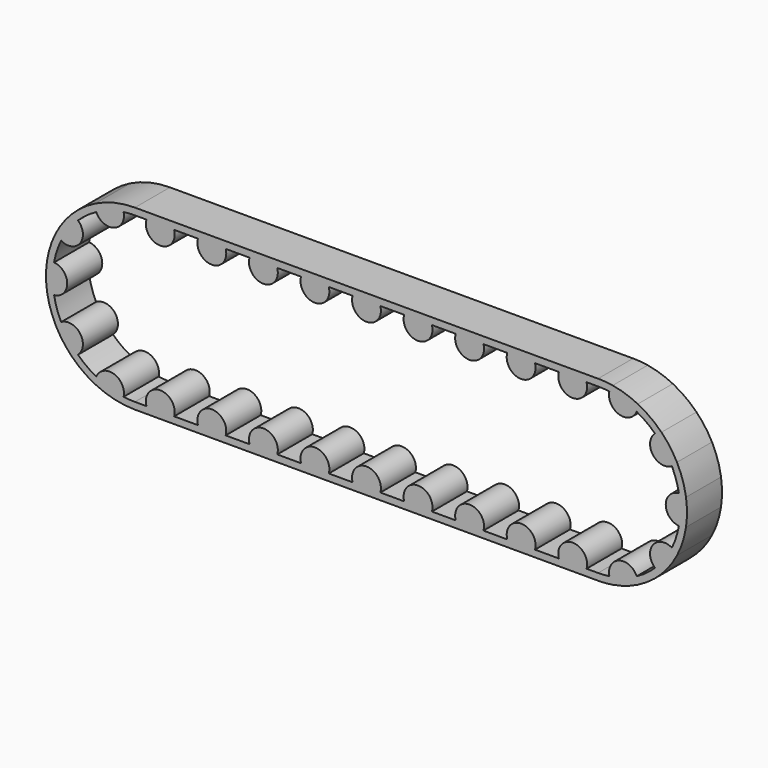
from build123d import *

# Parameters (mm, degrees)
F3_DEPTH = 25.4


with BuildPart() as f3:
    # F2 (on Front) → F3 (new body)
    with BuildSketch(Plane.XZ):
        with BuildLine():
            ThreePointArc((-6.5580901404, 47.171305671), (-3.2868824452, 47.5114410305), (0, 47.625))
            Line((0, 47.625), (6.6759446819, 47.625))
            ThreePointArc((6.6759446819, 47.625), (7.6523000339, 49.786472114), (9.1956373991, 51.5874))
            Line((9.1956373991, 51.5874), (0, 51.5874))
            ThreePointArc((0, 51.5874), (-4.2571154541, 51.4114462622), (-8.485190663, 50.8847853309))
            ThreePointArc((-8.485190663, 50.8847853309), (-7.2859359113, 49.1503637276), (-6.5580901404, 47.171305671))
        make_face()
        with BuildLine():
            ThreePointArc((-22.4209914306, 42.0171366024), (-14.7169343571, 45.2940665886), (-6.5580901404, 47.171305671))
            ThreePointArc((-6.5580901404, 47.171305671), (-7.2859359113, 49.1503637276), (-8.485190663, 50.8847853309))
            ThreePointArc((-8.485190663, 50.8847853309), (-15.9413832956, 49.0625329287), (-23.0446629367, 46.1541260224))
            ThreePointArc((-23.0446629367, 46.1541260224), (-22.9954129717, 44.0460452131), (-22.4209914306, 42.0171366024))
        make_face()
        with BuildLine():
            ThreePointArc((9.1956373991, 51.5874), (7.6523000339, 49.786472114), (6.6759446819, 47.625))
            Line((6.6759446819, 47.625), (22.7579240323, 47.625))
            ThreePointArc((22.7579240323, 47.625), (21.7815686803, 49.786472114), (20.2382313151, 51.5874))
            Line((20.2382313151, 51.5874), (9.1956373991, 51.5874))
        make_face()
        with BuildLine():
            ThreePointArc((-33.032204179, 34.307639267), (-27.9932726404, 38.5294343571), (-22.4209914306, 42.0171366024))
            ThreePointArc((-22.4209914306, 42.0171366024), (-22.9954129717, 44.0460452131), (-23.0446629367, 46.1541260224))
            ThreePointArc((-23.0446629367, 46.1541260224), (-30.3223129241, 41.7350832956), (-36.7739898304, 36.1791861533))
            ThreePointArc((-36.7739898304, 36.1791861533), (-34.7843049161, 35.4809138575), (-33.032204179, 34.307639267))
        make_face()
        with BuildLine():
            ThreePointArc((20.2382313151, 51.5874), (21.7815686803, 49.786472114), (22.7579240323, 47.625))
            Line((22.7579240323, 47.625), (36.5771902535, 47.625))
            ThreePointArc((36.5771902535, 47.625), (37.5535456055, 49.786472114), (39.0968829707, 51.5874))
            Line((39.0968829707, 51.5874), (20.2382313151, 51.5874))
        make_face()
        with BuildLine():
            ThreePointArc((-42.8360163366, 20.8138494617), (-38.5294343571, 27.9932726404), (-33.032204179, 34.307639267))
            ThreePointArc((-33.032204179, 34.307639267), (-34.7843049161, 35.4809138575), (-36.7739898304, 36.1791861533))
            ThreePointArc((-36.7739898304, 36.1791861533), (-41.7350832956, 30.3223129241), (-45.7722385539, 23.7941592944))
            ThreePointArc((-45.7722385539, 23.7941592944), (-44.4932956849, 22.1176344973), (-42.8360163366, 20.8138494617))
        make_face()
        with BuildLine():
            ThreePointArc((39.0968829707, 51.5874), (37.5535456055, 49.786472114), (36.5771902535, 47.625))
            Line((36.5771902535, 47.625), (52.6591696039, 47.625))
            ThreePointArc((52.6591696039, 47.625), (51.6828142519, 49.786472114), (50.1394768867, 51.5874))
            Line((50.1394768867, 51.5874), (39.0968829707, 51.5874))
        make_face()
        with BuildLine():
            ThreePointArc((-46.8891389446, 8.3396207368), (-45.2940665886, 14.7169343571), (-42.8360163366, 20.8138494617))
            ThreePointArc((-42.8360163366, 20.8138494617), (-44.4932956849, 22.1176344973), (-45.7722385539, 23.7941592944))
            ThreePointArc((-45.7722385539, 23.7941592944), (-49.0625329287, 15.9413832956), (-51.0163747846, 7.6543675504))
            ThreePointArc((-51.0163747846, 7.6543675504), (-48.9962517179, 8.2589608458), (-46.8891389446, 8.3396207368))
        make_face()
        with BuildLine():
            ThreePointArc((50.1394768867, 51.5874), (51.6828142519, 49.786472114), (52.6591696039, 47.625))
            Line((52.6591696039, 47.625), (66.478435825, 47.625))
            ThreePointArc((66.478435825, 47.625), (67.4547911771, 49.786472114), (68.9981285423, 51.5874))
            Line((68.9981285423, 51.5874), (50.1394768867, 51.5874))
        make_face()
        with BuildLine():
            ThreePointArc((-46.8891389446, -8.3396207368), (-47.625, 0), (-46.8891389446, 8.3396207368))
            ThreePointArc((-46.8891389446, 8.3396207368), (-48.9962517179, 8.2589608458), (-51.0163747846, 7.6543675504))
            ThreePointArc((-51.0163747846, 7.6543675504), (-51.5874, 0), (-51.0163747846, -7.6543675504))
            ThreePointArc((-51.0163747846, -7.6543675504), (-48.9962517179, -8.2589608458), (-46.8891389446, -8.3396207368))
        make_face()
        with BuildLine():
            ThreePointArc((68.9981285423, 51.5874), (67.4547911771, 49.786472114), (66.478435825, 47.625))
            Line((66.478435825, 47.625), (82.5604151755, 47.625))
            ThreePointArc((82.5604151755, 47.625), (81.5840598235, 49.786472114), (80.0407224583, 51.5874))
            Line((80.0407224583, 51.5874), (68.9981285423, 51.5874))
        make_face()
        with BuildLine():
            ThreePointArc((-42.8360163366, -20.8138494617), (-45.2940665886, -14.7169343571), (-46.8891389446, -8.3396207368))
            ThreePointArc((-46.8891389446, -8.3396207368), (-48.9962517179, -8.2589608458), (-51.0163747846, -7.6543675504))
            ThreePointArc((-51.0163747846, -7.6543675504), (-49.0625329287, -15.9413832956), (-45.7722385539, -23.7941592944))
            ThreePointArc((-45.7722385539, -23.7941592944), (-44.4932956849, -22.1176344973), (-42.8360163366, -20.8138494617))
        make_face()
        with BuildLine():
            ThreePointArc((80.0407224583, 51.5874), (81.5840598235, 49.786472114), (82.5604151755, 47.625))
            Line((82.5604151755, 47.625), (96.3796813966, 47.625))
            ThreePointArc((96.3796813966, 47.625), (97.3560367487, 49.786472114), (98.8993741139, 51.5874))
            Line((98.8993741139, 51.5874), (80.0407224583, 51.5874))
        make_face()
        with BuildLine():
            ThreePointArc((-33.032204179, -34.307639267), (-38.5294343571, -27.9932726404), (-42.8360163366, -20.8138494617))
            ThreePointArc((-42.8360163366, -20.8138494617), (-44.4932956849, -22.1176344973), (-45.7722385539, -23.7941592944))
            ThreePointArc((-45.7722385539, -23.7941592944), (-41.7350832956, -30.3223129241), (-36.7739898304, -36.1791861533))
            ThreePointArc((-36.7739898304, -36.1791861533), (-34.7843049161, -35.4809138575), (-33.032204179, -34.307639267))
        make_face()
        with BuildLine():
            ThreePointArc((98.8993741139, 51.5874), (97.3560367487, 49.786472114), (96.3796813966, 47.625))
            Line((96.3796813966, 47.625), (112.4616607471, 47.625))
            ThreePointArc((112.4616607471, 47.625), (111.485305395, 49.786472114), (109.9419680298, 51.5874))
            Line((109.9419680298, 51.5874), (98.8993741139, 51.5874))
        make_face()
        with BuildLine():
            ThreePointArc((-22.4209914306, -42.0171366024), (-27.9932726404, -38.5294343571), (-33.032204179, -34.307639267))
            ThreePointArc((-33.032204179, -34.307639267), (-34.7843049161, -35.4809138575), (-36.7739898304, -36.1791861533))
            ThreePointArc((-36.7739898304, -36.1791861533), (-30.3223129241, -41.7350832956), (-23.0446629367, -46.1541260224))
            ThreePointArc((-23.0446629367, -46.1541260224), (-22.9954129717, -44.0460452131), (-22.4209914306, -42.0171366024))
        make_face()
        with BuildLine():
            ThreePointArc((109.9419680298, 51.5874), (111.485305395, 49.786472114), (112.4616607471, 47.625))
            Line((112.4616607471, 47.625), (126.2809269682, 47.625))
            ThreePointArc((126.2809269682, 47.625), (127.2572823202, 49.786472114), (128.8006196855, 51.5874))
            Line((128.8006196855, 51.5874), (109.9419680298, 51.5874))
        make_face()
        with BuildLine():
            ThreePointArc((-6.5580901404, -47.171305671), (-14.7169343571, -45.2940665886), (-22.4209914306, -42.0171366024))
            ThreePointArc((-22.4209914306, -42.0171366024), (-22.9954129717, -44.0460452131), (-23.0446629367, -46.1541260224))
            ThreePointArc((-23.0446629367, -46.1541260224), (-15.9413832956, -49.0625329287), (-8.485190663, -50.8847853309))
            ThreePointArc((-8.485190663, -50.8847853309), (-7.2859359113, -49.1503637276), (-6.5580901404, -47.171305671))
        make_face()
        with BuildLine():
            ThreePointArc((128.8006196855, 51.5874), (127.2572823202, 49.786472114), (126.2809269682, 47.625))
            Line((126.2809269682, 47.625), (142.3629063187, 47.625))
            ThreePointArc((142.3629063187, 47.625), (141.3865509666, 49.786472114), (139.8432136014, 51.5874))
            Line((139.8432136014, 51.5874), (128.8006196855, 51.5874))
        make_face()
        with BuildLine():
            ThreePointArc((0, -47.625), (-3.2868824452, -47.5114410305), (-6.5580901404, -47.171305671))
            ThreePointArc((-6.5580901404, -47.171305671), (-7.2859359113, -49.1503637276), (-8.485190663, -50.8847853309))
            ThreePointArc((-8.485190663, -50.8847853309), (-4.2571154541, -51.4114462622), (0, -51.5874))
            Line((0, -51.5874), (9.1956373991, -51.5874))
            ThreePointArc((9.1956373991, -51.5874), (7.6523000339, -49.786472114), (6.6759446819, -47.625))
            Line((6.6759446819, -47.625), (0, -47.625))
        make_face()
        with BuildLine():
            ThreePointArc((139.8432136014, 51.5874), (141.3865509666, 49.786472114), (142.3629063187, 47.625))
            Line((142.3629063187, 47.625), (156.1821725398, 47.625))
            ThreePointArc((156.1821725398, 47.625), (157.1585278918, 49.786472114), (158.701865257, 51.5874))
            Line((158.701865257, 51.5874), (139.8432136014, 51.5874))
        make_face()
        with BuildLine():
            ThreePointArc((158.701865257, 51.5874), (157.1585278918, 49.786472114), (156.1821725398, 47.625))
            Line((156.1821725398, 47.625), (172.2641518903, 47.625))
            ThreePointArc((172.2641518903, 47.625), (171.2877965382, 49.786472114), (169.744459173, 51.5874))
            Line((169.744459173, 51.5874), (158.701865257, 51.5874))
        make_face()
        with BuildLine():
            Line((22.7579240323, -47.625), (6.6759446819, -47.625))
            ThreePointArc((6.6759446819, -47.625), (7.6523000339, -49.786472114), (9.1956373991, -51.5874))
            Line((9.1956373991, -51.5874), (20.2382313151, -51.5874))
            ThreePointArc((20.2382313151, -51.5874), (21.7815686803, -49.786472114), (22.7579240323, -47.625))
        make_face()
        with BuildLine():
            ThreePointArc((169.744459173, 51.5874), (171.2877965382, 49.786472114), (172.2641518903, 47.625))
            Line((172.2641518903, 47.625), (186.0834181114, 47.625))
            ThreePointArc((186.0834181114, 47.625), (187.0597734634, 49.786472114), (188.6031108286, 51.5874))
            Line((188.6031108286, 51.5874), (169.744459173, 51.5874))
        make_face()
        with BuildLine():
            Line((36.5771902535, -47.625), (22.7579240323, -47.625))
            ThreePointArc((22.7579240323, -47.625), (21.7815686803, -49.786472114), (20.2382313151, -51.5874))
            Line((20.2382313151, -51.5874), (39.0968829707, -51.5874))
            ThreePointArc((39.0968829707, -51.5874), (37.5535456055, -49.786472114), (36.5771902535, -47.625))
        make_face()
        with BuildLine():
            ThreePointArc((188.6031108286, 51.5874), (187.0597734634, 49.786472114), (186.0834181114, 47.625))
            Line((186.0834181114, 47.625), (202.1653974618, 47.625))
            ThreePointArc((202.1653974618, 47.625), (201.1890421098, 49.786472114), (199.6457047446, 51.5874))
            Line((199.6457047446, 51.5874), (188.6031108286, 51.5874))
        make_face()
        with BuildLine():
            Line((52.6591696039, -47.625), (36.5771902535, -47.625))
            ThreePointArc((36.5771902535, -47.625), (37.5535456055, -49.786472114), (39.0968829707, -51.5874))
            Line((39.0968829707, -51.5874), (50.1394768867, -51.5874))
            ThreePointArc((50.1394768867, -51.5874), (51.6828142519, -49.786472114), (52.6591696039, -47.625))
        make_face()
        with BuildLine():
            ThreePointArc((199.6457047446, 51.5874), (201.1890421098, 49.786472114), (202.1653974618, 47.625))
            Line((202.1653974618, 47.625), (215.984663683, 47.625))
            ThreePointArc((215.984663683, 47.625), (216.961019035, 49.786472114), (218.5043564002, 51.5874))
            Line((218.5043564002, 51.5874), (199.6457047446, 51.5874))
        make_face()
        with BuildLine():
            Line((66.478435825, -47.625), (52.6591696039, -47.625))
            ThreePointArc((52.6591696039, -47.625), (51.6828142519, -49.786472114), (50.1394768867, -51.5874))
            Line((50.1394768867, -51.5874), (68.9981285423, -51.5874))
            ThreePointArc((68.9981285423, -51.5874), (67.4547911771, -49.786472114), (66.478435825, -47.625))
        make_face()
        with BuildLine():
            ThreePointArc((218.5043564002, 51.5874), (216.961019035, 49.786472114), (215.984663683, 47.625))
            Line((215.984663683, 47.625), (232.0666430334, 47.625))
            ThreePointArc((232.0666430334, 47.625), (231.0902876814, 49.786472114), (229.5469503162, 51.5874))
            Line((229.5469503162, 51.5874), (218.5043564002, 51.5874))
        make_face()
        with BuildLine():
            Line((82.5604151755, -47.625), (66.478435825, -47.625))
            ThreePointArc((66.478435825, -47.625), (67.4547911771, -49.786472114), (68.9981285423, -51.5874))
            Line((68.9981285423, -51.5874), (80.0407224583, -51.5874))
            ThreePointArc((80.0407224583, -51.5874), (81.5840598235, -49.786472114), (82.5604151755, -47.625))
        make_face()
        with BuildLine():
            ThreePointArc((229.5469503162, 51.5874), (231.0902876814, 49.786472114), (232.0666430334, 47.625))
            Line((232.0666430334, 47.625), (245.8859092545, 47.625))
            ThreePointArc((245.8859092545, 47.625), (246.8622646066, 49.786472114), (248.4056019718, 51.5874))
            Line((248.4056019718, 51.5874), (229.5469503162, 51.5874))
        make_face()
        with BuildLine():
            Line((96.3796813966, -47.625), (82.5604151755, -47.625))
            ThreePointArc((82.5604151755, -47.625), (81.5840598235, -49.786472114), (80.0407224583, -51.5874))
            Line((80.0407224583, -51.5874), (98.8993741139, -51.5874))
            ThreePointArc((98.8993741139, -51.5874), (97.3560367487, -49.786472114), (96.3796813966, -47.625))
        make_face()
        with BuildLine():
            ThreePointArc((248.4056019718, 51.5874), (246.8622646066, 49.786472114), (245.8859092545, 47.625))
            Line((245.8859092545, 47.625), (261.967888605, 47.625))
            ThreePointArc((261.967888605, 47.625), (260.991533253, 49.786472114), (259.4481958878, 51.5874))
            Line((259.4481958878, 51.5874), (248.4056019718, 51.5874))
        make_face()
        with BuildLine():
            Line((112.4616607471, -47.625), (96.3796813966, -47.625))
            ThreePointArc((96.3796813966, -47.625), (97.3560367487, -49.786472114), (98.8993741139, -51.5874))
            Line((98.8993741139, -51.5874), (109.9419680298, -51.5874))
            ThreePointArc((109.9419680298, -51.5874), (111.485305395, -49.786472114), (112.4616607471, -47.625))
        make_face()
        with BuildLine():
            ThreePointArc((259.4481958878, 51.5874), (260.991533253, 49.786472114), (261.967888605, 47.625))
            Line((261.967888605, 47.625), (268.6438332869, 47.625))
            ThreePointArc((268.6438332869, 47.625), (271.930715732, 47.5114410305), (275.2019234272, 47.171305671))
            ThreePointArc((275.2019234272, 47.171305671), (275.9297691982, 49.1503637276), (277.1290239498, 50.8847853309))
            ThreePointArc((277.1290239498, 50.8847853309), (272.900948741, 51.4114462622), (268.6438332869, 51.5874))
            Line((268.6438332869, 51.5874), (259.4481958878, 51.5874))
        make_face()
        with BuildLine():
            Line((126.2809269682, -47.625), (112.4616607471, -47.625))
            ThreePointArc((112.4616607471, -47.625), (111.485305395, -49.786472114), (109.9419680298, -51.5874))
            Line((109.9419680298, -51.5874), (128.8006196855, -51.5874))
            ThreePointArc((128.8006196855, -51.5874), (127.2572823202, -49.786472114), (126.2809269682, -47.625))
        make_face()
        with BuildLine():
            Line((142.3629063187, -47.625), (126.2809269682, -47.625))
            ThreePointArc((126.2809269682, -47.625), (127.2572823202, -49.786472114), (128.8006196855, -51.5874))
            Line((128.8006196855, -51.5874), (139.8432136014, -51.5874))
            ThreePointArc((139.8432136014, -51.5874), (141.3865509666, -49.786472114), (142.3629063187, -47.625))
        make_face()
        with BuildLine():
            ThreePointArc((277.1290239498, 50.8847853309), (275.9297691982, 49.1503637276), (275.2019234272, 47.171305671))
            ThreePointArc((275.2019234272, 47.171305671), (283.360767644, 45.2940665886), (291.0648247175, 42.0171366024))
            ThreePointArc((291.0648247175, 42.0171366024), (291.6392462586, 44.0460452131), (291.6884962236, 46.1541260224))
            ThreePointArc((291.6884962236, 46.1541260224), (284.5852165825, 49.0625329287), (277.1290239498, 50.8847853309))
        make_face()
        with BuildLine():
            Line((156.1821725398, -47.625), (142.3629063187, -47.625))
            ThreePointArc((142.3629063187, -47.625), (141.3865509666, -49.786472114), (139.8432136014, -51.5874))
            Line((139.8432136014, -51.5874), (158.701865257, -51.5874))
            ThreePointArc((158.701865257, -51.5874), (157.1585278918, -49.786472114), (156.1821725398, -47.625))
        make_face()
        with BuildLine():
            ThreePointArc((291.6884962236, 46.1541260224), (291.6392462586, 44.0460452131), (291.0648247175, 42.0171366024))
            ThreePointArc((291.0648247175, 42.0171366024), (296.6371059273, 38.5294343571), (301.6760374659, 34.307639267))
            ThreePointArc((301.6760374659, 34.307639267), (303.4281382029, 35.4809138575), (305.4178231173, 36.1791861533))
            ThreePointArc((305.4178231173, 36.1791861533), (298.966146211, 41.7350832956), (291.6884962236, 46.1541260224))
        make_face()
        with BuildLine():
            Line((172.2641518903, -47.625), (156.1821725398, -47.625))
            ThreePointArc((156.1821725398, -47.625), (157.1585278918, -49.786472114), (158.701865257, -51.5874))
            Line((158.701865257, -51.5874), (169.744459173, -51.5874))
            ThreePointArc((169.744459173, -51.5874), (171.2877965382, -49.786472114), (172.2641518903, -47.625))
        make_face()
        with BuildLine():
            ThreePointArc((305.4178231173, 36.1791861533), (303.4281382029, 35.4809138575), (301.6760374659, 34.307639267))
            ThreePointArc((301.6760374659, 34.307639267), (307.173267644, 27.9932726404), (311.4798496235, 20.8138494617))
            ThreePointArc((311.4798496235, 20.8138494617), (313.1371289717, 22.1176344973), (314.4160718408, 23.7941592944))
            ThreePointArc((314.4160718408, 23.7941592944), (310.3789165825, 30.3223129241), (305.4178231173, 36.1791861533))
        make_face()
        with BuildLine():
            Line((186.0834181114, -47.625), (172.2641518903, -47.625))
            ThreePointArc((172.2641518903, -47.625), (171.2877965382, -49.786472114), (169.744459173, -51.5874))
            Line((169.744459173, -51.5874), (188.6031108286, -51.5874))
            ThreePointArc((188.6031108286, -51.5874), (187.0597734634, -49.786472114), (186.0834181114, -47.625))
        make_face()
        with BuildLine():
            ThreePointArc((314.4160718408, 23.7941592944), (313.1371289717, 22.1176344973), (311.4798496235, 20.8138494617))
            ThreePointArc((311.4798496235, 20.8138494617), (313.9378998754, 14.7169343571), (315.5329722315, 8.3396207368))
            ThreePointArc((315.5329722315, 8.3396207368), (317.6400850048, 8.2589608458), (319.6602080715, 7.6543675504))
            ThreePointArc((319.6602080715, 7.6543675504), (317.7063662156, 15.9413832956), (314.4160718408, 23.7941592944))
        make_face()
        with BuildLine():
            Line((202.1653974618, -47.625), (186.0834181114, -47.625))
            ThreePointArc((186.0834181114, -47.625), (187.0597734634, -49.786472114), (188.6031108286, -51.5874))
            Line((188.6031108286, -51.5874), (199.6457047446, -51.5874))
            ThreePointArc((199.6457047446, -51.5874), (201.1890421098, -49.786472114), (202.1653974618, -47.625))
        make_face()
        with BuildLine():
            ThreePointArc((319.6602080715, 7.6543675504), (317.6400850048, 8.2589608458), (315.5329722315, 8.3396207368))
            ThreePointArc((315.5329722315, 8.3396207368), (316.2688332869, 0), (315.5329722315, -8.3396207368))
            ThreePointArc((315.5329722315, -8.3396207368), (317.6400850048, -8.2589608458), (319.6602080715, -7.6543675504))
            ThreePointArc((319.6602080715, -7.6543675504), (320.2312332869, 0), (319.6602080715, 7.6543675504))
        make_face()
        with BuildLine():
            Line((215.984663683, -47.625), (202.1653974618, -47.625))
            ThreePointArc((202.1653974618, -47.625), (201.1890421098, -49.786472114), (199.6457047446, -51.5874))
            Line((199.6457047446, -51.5874), (218.5043564002, -51.5874))
            ThreePointArc((218.5043564002, -51.5874), (216.961019035, -49.786472114), (215.984663683, -47.625))
        make_face()
        with BuildLine():
            ThreePointArc((319.6602080715, -7.6543675504), (317.6400850048, -8.2589608458), (315.5329722315, -8.3396207368))
            ThreePointArc((315.5329722315, -8.3396207368), (313.9378998754, -14.7169343571), (311.4798496235, -20.8138494617))
            ThreePointArc((311.4798496235, -20.8138494617), (313.1371289717, -22.1176344973), (314.4160718408, -23.7941592944))
            ThreePointArc((314.4160718408, -23.7941592944), (317.7063662156, -15.9413832956), (319.6602080715, -7.6543675504))
        make_face()
        with BuildLine():
            Line((232.0666430334, -47.625), (215.984663683, -47.625))
            ThreePointArc((215.984663683, -47.625), (216.961019035, -49.786472114), (218.5043564002, -51.5874))
            Line((218.5043564002, -51.5874), (229.5469503162, -51.5874))
            ThreePointArc((229.5469503162, -51.5874), (231.0902876814, -49.786472114), (232.0666430334, -47.625))
        make_face()
        with BuildLine():
            ThreePointArc((314.4160718408, -23.7941592944), (313.1371289717, -22.1176344973), (311.4798496235, -20.8138494617))
            ThreePointArc((311.4798496235, -20.8138494617), (307.173267644, -27.9932726404), (301.6760374659, -34.307639267))
            ThreePointArc((301.6760374659, -34.307639267), (303.4281382029, -35.4809138575), (305.4178231173, -36.1791861533))
            ThreePointArc((305.4178231173, -36.1791861533), (310.3789165825, -30.3223129241), (314.4160718408, -23.7941592944))
        make_face()
        with BuildLine():
            Line((245.8859092545, -47.625), (232.0666430334, -47.625))
            ThreePointArc((232.0666430334, -47.625), (231.0902876814, -49.786472114), (229.5469503162, -51.5874))
            Line((229.5469503162, -51.5874), (248.4056019718, -51.5874))
            ThreePointArc((248.4056019718, -51.5874), (246.8622646066, -49.786472114), (245.8859092545, -47.625))
        make_face()
        with BuildLine():
            ThreePointArc((305.4178231173, -36.1791861533), (303.4281382029, -35.4809138575), (301.6760374659, -34.307639267))
            ThreePointArc((301.6760374659, -34.307639267), (296.6371059273, -38.5294343571), (291.0648247175, -42.0171366024))
            ThreePointArc((291.0648247175, -42.0171366024), (291.6392462586, -44.0460452131), (291.6884962236, -46.1541260224))
            ThreePointArc((291.6884962236, -46.1541260224), (298.966146211, -41.7350832956), (305.4178231173, -36.1791861533))
        make_face()
        with BuildLine():
            Line((261.967888605, -47.625), (245.8859092545, -47.625))
            ThreePointArc((245.8859092545, -47.625), (246.8622646066, -49.786472114), (248.4056019718, -51.5874))
            Line((248.4056019718, -51.5874), (259.4481958878, -51.5874))
            ThreePointArc((259.4481958878, -51.5874), (260.991533253, -49.786472114), (261.967888605, -47.625))
        make_face()
        with BuildLine():
            ThreePointArc((291.6884962236, -46.1541260224), (291.6392462586, -44.0460452131), (291.0648247175, -42.0171366024))
            ThreePointArc((291.0648247175, -42.0171366024), (283.360767644, -45.2940665886), (275.2019234272, -47.171305671))
            ThreePointArc((275.2019234272, -47.171305671), (275.9297691982, -49.1503637276), (277.1290239498, -50.8847853309))
            ThreePointArc((277.1290239498, -50.8847853309), (284.5852165825, -49.0625329287), (291.6884962236, -46.1541260224))
        make_face()
        with BuildLine():
            Line((268.6438332869, -47.625), (261.967888605, -47.625))
            ThreePointArc((261.967888605, -47.625), (260.991533253, -49.786472114), (259.4481958878, -51.5874))
            Line((259.4481958878, -51.5874), (268.6438332869, -51.5874))
            ThreePointArc((268.6438332869, -51.5874), (272.900948741, -51.4114462622), (277.1290239498, -50.8847853309))
            ThreePointArc((277.1290239498, -50.8847853309), (275.9297691982, -49.1503637276), (275.2019234272, -47.171305671))
            ThreePointArc((275.2019234272, -47.171305671), (271.930715732, -47.5114410305), (268.6438332869, -47.625))
        make_face()
        with BuildLine():
            ThreePointArc((-6.5580901404, -47.171305671), (-12.129837039, -37.3317997636), (-22.4209914306, -42.0171366024))
            ThreePointArc((-22.4209914306, -42.0171366024), (-14.7169343571, -45.2940665886), (-6.5580901404, -47.171305671))
        make_face()
        with BuildLine():
            ThreePointArc((-33.032204179, -34.307639267), (-31.7563256461, -23.0723211151), (-42.8360163366, -20.8138494617))
            ThreePointArc((-42.8360163366, -20.8138494617), (-38.5294343571, -27.9932726404), (-33.032204179, -34.307639267))
        make_face()
        with BuildLine():
            ThreePointArc((22.7579240323, -47.625), (14.7169343571, -36.9220438028), (6.6759446819, -47.625))
            Line((6.6759446819, -47.625), (22.7579240323, -47.625))
        make_face()
        with BuildLine():
            ThreePointArc((52.6591696039, -47.625), (44.6181799287, -36.9220438028), (36.5771902535, -47.625))
            Line((36.5771902535, -47.625), (52.6591696039, -47.625))
        make_face()
        with BuildLine():
            ThreePointArc((82.5604151755, -47.625), (74.5194255003, -36.9220438028), (66.478435825, -47.625))
            Line((66.478435825, -47.625), (82.5604151755, -47.625))
        make_face()
        with BuildLine():
            ThreePointArc((112.4616607471, -47.625), (104.4206710719, -36.9220438028), (96.3796813966, -47.625))
            Line((96.3796813966, -47.625), (112.4616607471, -47.625))
        make_face()
        with BuildLine():
            ThreePointArc((142.3629063187, -47.625), (134.3219166434, -36.9220438028), (126.2809269682, -47.625))
            Line((126.2809269682, -47.625), (142.3629063187, -47.625))
        make_face()
        with BuildLine():
            ThreePointArc((172.2641518903, -47.625), (164.223162215, -36.9220438028), (156.1821725398, -47.625))
            Line((156.1821725398, -47.625), (172.2641518903, -47.625))
        make_face()
        with BuildLine():
            ThreePointArc((202.1653974618, -47.625), (194.1244077866, -36.9220438028), (186.0834181114, -47.625))
            Line((186.0834181114, -47.625), (202.1653974618, -47.625))
        make_face()
        with BuildLine():
            ThreePointArc((232.0666430334, -47.625), (224.0256533582, -36.9220438028), (215.984663683, -47.625))
            Line((215.984663683, -47.625), (232.0666430334, -47.625))
        make_face()
        with BuildLine():
            ThreePointArc((261.967888605, -47.625), (253.9268989298, -36.9220438028), (245.8859092545, -47.625))
            Line((245.8859092545, -47.625), (261.967888605, -47.625))
        make_face()
        with BuildLine():
            ThreePointArc((275.2019234272, -47.171305671), (283.360767644, -45.2940665886), (291.0648247175, -42.0171366024))
            ThreePointArc((291.0648247175, -42.0171366024), (280.7736703259, -37.3317997636), (275.2019234272, -47.171305671))
        make_face()
        with BuildLine():
            ThreePointArc((301.6760374659, -34.307639267), (307.173267644, -27.9932726404), (311.4798496235, -20.8138494617))
            ThreePointArc((311.4798496235, -20.8138494617), (300.400158933, -23.0723211151), (301.6760374659, -34.307639267))
        make_face()
        with BuildLine():
            ThreePointArc((315.5329722315, -8.3396207368), (316.2688332869, 0), (315.5329722315, 8.3396207368))
            ThreePointArc((315.5329722315, 8.3396207368), (307.8968105011, 0), (315.5329722315, -8.3396207368))
        make_face()
        with BuildLine():
            ThreePointArc((311.4798496235, 20.8138494617), (307.173267644, 27.9932726404), (301.6760374659, 34.307639267))
            ThreePointArc((301.6760374659, 34.307639267), (300.400158933, 23.0723211151), (311.4798496235, 20.8138494617))
        make_face()
        with BuildLine():
            ThreePointArc((291.0648247175, 42.0171366024), (283.360767644, 45.2940665886), (275.2019234272, 47.171305671))
            ThreePointArc((275.2019234272, 47.171305671), (280.7736703259, 37.3317997636), (291.0648247175, 42.0171366024))
        make_face()
        with BuildLine():
            Line((261.967888605, 47.625), (245.8859092545, 47.625))
            ThreePointArc((245.8859092545, 47.625), (253.9268989298, 36.9220438028), (261.967888605, 47.625))
        make_face()
        with BuildLine():
            Line((232.0666430334, 47.625), (215.984663683, 47.625))
            ThreePointArc((215.984663683, 47.625), (224.0256533582, 36.9220438028), (232.0666430334, 47.625))
        make_face()
        with BuildLine():
            Line((202.1653974618, 47.625), (186.0834181114, 47.625))
            ThreePointArc((186.0834181114, 47.625), (194.1244077866, 36.9220438028), (202.1653974618, 47.625))
        make_face()
        with BuildLine():
            Line((172.2641518903, 47.625), (156.1821725398, 47.625))
            ThreePointArc((156.1821725398, 47.625), (164.223162215, 36.9220438028), (172.2641518903, 47.625))
        make_face()
        with BuildLine():
            Line((142.3629063187, 47.625), (126.2809269682, 47.625))
            ThreePointArc((126.2809269682, 47.625), (134.3219166434, 36.9220438028), (142.3629063187, 47.625))
        make_face()
        with BuildLine():
            Line((112.4616607471, 47.625), (96.3796813966, 47.625))
            ThreePointArc((96.3796813966, 47.625), (104.4206710719, 36.9220438028), (112.4616607471, 47.625))
        make_face()
        with BuildLine():
            Line((82.5604151755, 47.625), (66.478435825, 47.625))
            ThreePointArc((66.478435825, 47.625), (74.5194255003, 36.9220438028), (82.5604151755, 47.625))
        make_face()
        with BuildLine():
            Line((52.6591696039, 47.625), (36.5771902535, 47.625))
            ThreePointArc((36.5771902535, 47.625), (44.6181799287, 36.9220438028), (52.6591696039, 47.625))
        make_face()
        with BuildLine():
            Line((22.7579240323, 47.625), (6.6759446819, 47.625))
            ThreePointArc((6.6759446819, 47.625), (14.7169343571, 36.9220438028), (22.7579240323, 47.625))
        make_face()
        with BuildLine():
            ThreePointArc((-22.4209914306, 42.0171366024), (-12.129837039, 37.3317997636), (-6.5580901404, 47.171305671))
            ThreePointArc((-6.5580901404, 47.171305671), (-14.7169343571, 45.2940665886), (-22.4209914306, 42.0171366024))
        make_face()
        with BuildLine():
            ThreePointArc((-42.8360163366, 20.8138494617), (-31.7563256461, 23.0723211151), (-33.032204179, 34.307639267))
            ThreePointArc((-33.032204179, 34.307639267), (-38.5294343571, 27.9932726404), (-42.8360163366, 20.8138494617))
        make_face()
        with BuildLine():
            ThreePointArc((-46.8891389446, -8.3396207368), (-39.2529772142, 0), (-46.8891389446, 8.3396207368))
            ThreePointArc((-46.8891389446, 8.3396207368), (-47.625, 0), (-46.8891389446, -8.3396207368))
        make_face()
    extrude(amount=F3_DEPTH)


solid = f3.part
